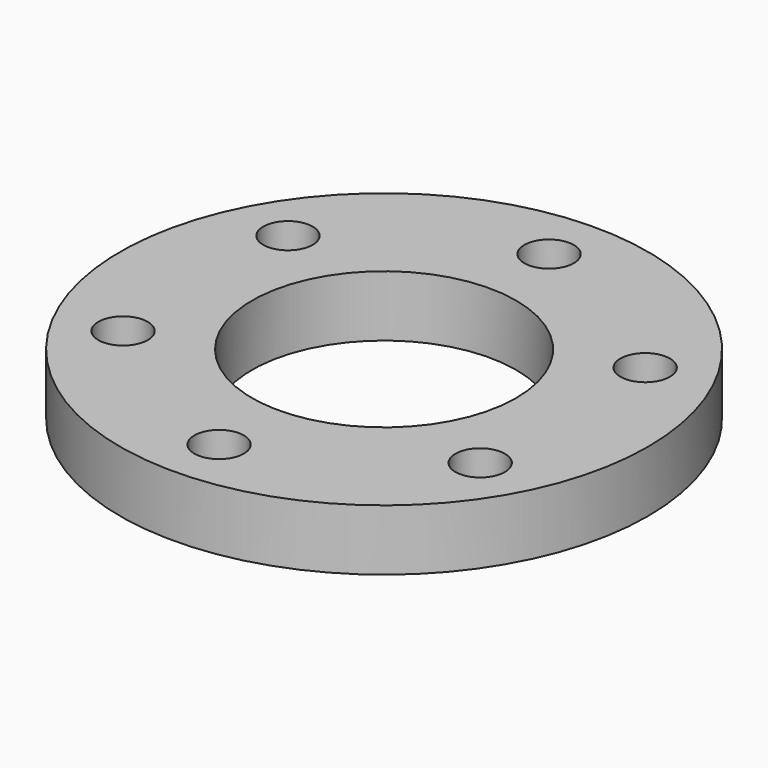
from build123d import *

# Parameters (mm, degrees)
F0_R     = 16
F0_R_2   = 1.5
F0_R_3   = 8.005
F1_DEPTH = 3.7


with BuildPart() as f1:
    # F0 (on Top) → F1 (new body)
    with BuildSketch(Plane.XY):
        Circle(F0_R)
        with Locations((-10.825318, -6.25)):
            Circle(F0_R_2, mode=Mode.SUBTRACT)
        with Locations((0, -12.5)):
            Circle(F0_R_2, mode=Mode.SUBTRACT)
        with Locations((10.825318, -6.25)):
            Circle(F0_R_2, mode=Mode.SUBTRACT)
        with Locations((-10.825318, 6.25)):
            Circle(F0_R_2, mode=Mode.SUBTRACT)
        Circle(F0_R_3, mode=Mode.SUBTRACT)
        with Locations((10.825318, 6.25)):
            Circle(F0_R_2, mode=Mode.SUBTRACT)
        with Locations((0, 12.5)):
            Circle(F0_R_2, mode=Mode.SUBTRACT)
    extrude(amount=F1_DEPTH)


solid = f1.part
